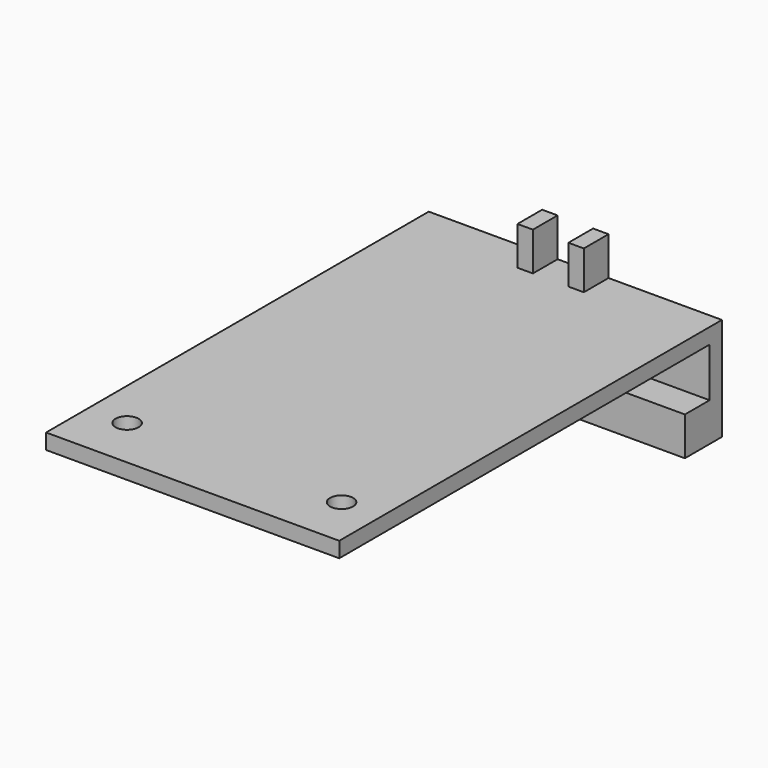
from build123d import *

# Parameters (mm, degrees)
F0_W     = 38
F0_H     = 60
F1_DEPTH = 2
F2_W     = 38
F2_H     = 2
F2_H_2   = 6.35
F3_DEPTH = 2
F4_W     = 38
F4_H     = 6
F5_DEPTH = 5
F6_W     = 2
F6_H     = 4
F7_DEPTH = 5
F8_R     = 1.5
F9_DEPTH = 25


with BuildPart() as f1:
    # F0 (on Top) → F1 (new body)
    with BuildSketch(Plane.XY):
        Rectangle(F0_W, F0_H)
    extrude(amount=F1_DEPTH)

    # F2 (on face) → F3 (join)
    with BuildSketch(Plane(origin=(0, 30, 0), x_dir=(-1, 0, 0), z_dir=(0, 1, 0))):
        with Locations((0, 1)):
            Rectangle(F2_W, F2_H)
        with Locations((0, -3.175)):
            Rectangle(F2_W, F2_H_2)
    extrude(amount=F3_DEPTH)

    # F4 (on face) → F5 (join)
    with BuildSketch(Plane(origin=(0, 0, -6.35), x_dir=(1, 0, 0), z_dir=(0, 0, -1))):
        with Locations((0, -29)):
            Rectangle(F4_W, F4_H)
    extrude(amount=F5_DEPTH)

    # F6 (on face) → F7 (join)
    with BuildSketch(Plane.XY.offset(2)):
        with Locations((-3.3, 30)):
            Rectangle(F6_W, F6_H)
        with Locations((3.3, 30)):
            Rectangle(F6_W, F6_H)
    extrude(amount=F7_DEPTH)

    # F8 (on face) → F9 (cut)
    with BuildSketch(Plane.XY.offset(2)):
        with Locations((-13.9, -23.25)):
            Circle(F8_R)
        with Locations((13.9, -23.25)):
            Circle(F8_R)
    extrude(amount=-F9_DEPTH, mode=Mode.SUBTRACT)


solid = f1.part
